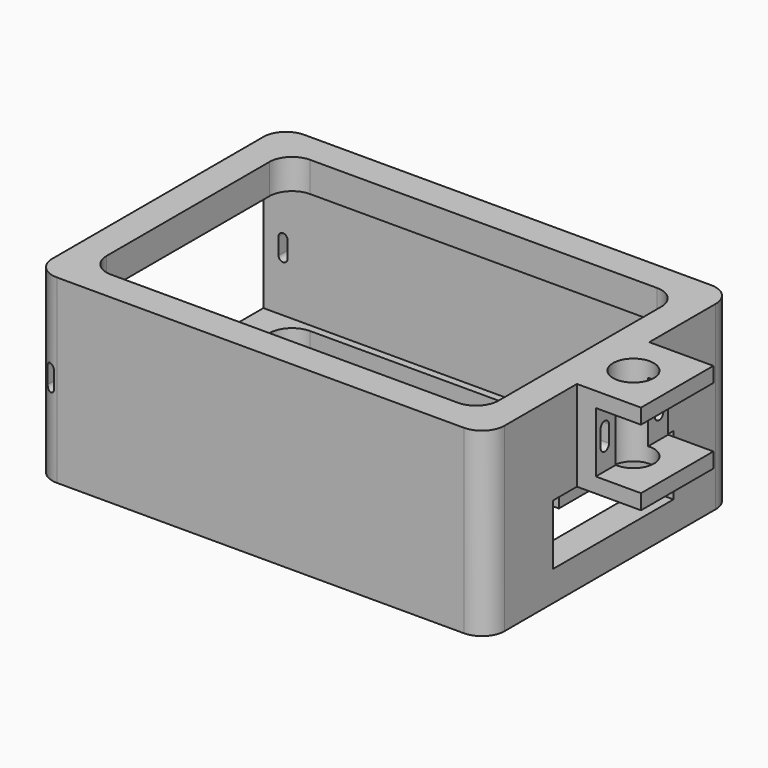
from build123d import *

# Parameters (mm, degrees)
SKETCH_R        = 1.7
PAD_DEPTH       = 24
SKETCH001_W     = 35
SKETCH001_H     = 16
POCKET_DEPTH    = 57
SKETCH002_W     = 20
SKETCH002_H     = 8
POCKET001_DEPTH = 5
SKETCH003_W     = 11
SKETCH003_H     = 20
POCKET002_DEPTH = 40.001
SKETCH004_W     = 20
SKETCH004_H     = 15
SKETCH004_R     = 1.7
PAD001_DEPTH    = 6
SKETCH005_W     = 12
SKETCH005_H     = 2.2
POCKET003_DEPTH = 40.001
SKETCH006_W     = 12
SKETCH006_H     = 12
PAD002_DEPTH    = 8.5
SKETCH007_R     = 2.7
POCKET004_DEPTH = 30.001
SKETCH008_W     = 12
SKETCH008_H     = 8
POCKET005_DEPTH = 6
POCKET006_DEPTH = 10
SKETCH010_W     = 7.6
SKETCH010_H     = 2.2
POCKET007_DEPTH = 2
POCKET008_DEPTH = 3.001
POCKET009_DEPTH = 5


with BuildPart() as part:
    # Sketch → Pad (new body)
    with BuildSketch(Plane.XY):
        with BuildLine():
            Line((3, 41), (20, 41))
            Line((20, 41), (20, 52))
            Line((20, 52), (40, 52))
            Line((40, 52), (40, 41))
            Line((40, 41), (57, 41))
            ThreePointArc((60, 38), (59.12132, 40.12132), (57, 41))
            Line((60, 38), (60, 3))
            ThreePointArc((57, 0), (59.12132, 0.87868), (60, 3))
            Line((57, 0), (3, 0))
            ThreePointArc((0, 3), (0.87868, 0.87868), (3, 0))
            Line((0, 3), (0, 38))
            ThreePointArc((3, 41), (0.87868, 40.12132), (0, 38))
        make_face()
        with Locations((30, 45)):
            Circle(SKETCH_R, mode=Mode.SUBTRACT)
        with BuildLine():
            Line((7, 4), (53, 4))
            ThreePointArc((53, 4), (55.12132, 4.87868), (56, 7))
            Line((56, 7), (56, 34))
            ThreePointArc((56, 34), (55.12132, 36.12132), (53, 37))
            Line((53, 37), (7, 37))
            ThreePointArc((7, 37), (4.87868, 36.12132), (4, 34))
            Line((4, 34), (4, 7))
            ThreePointArc((4, 7), (4.87868, 4.87868), (7, 4))
        make_face(mode=Mode.SUBTRACT)
    extrude(amount=PAD_DEPTH)

    # Sketch001 → Pocket (cut)
    with BuildSketch(Plane(origin=(0, 0, 0), x_dir=(0, -1, 0), z_dir=(-1, 0, 0))):
        with Locations((-20.5, 12)):
            Rectangle(SKETCH001_W, SKETCH001_H)
    extrude(amount=-POCKET_DEPTH, mode=Mode.SUBTRACT)

    # Sketch002 → Pocket001 (cut)
    with BuildSketch(Plane.YZ.offset(60)):
        with Locations((21, 8)):
            Rectangle(SKETCH002_W, SKETCH002_H)
    extrude(amount=-POCKET001_DEPTH, mode=Mode.SUBTRACT)

    # Sketch003 → Pocket002 (cut, through all)
    with BuildSketch(Plane(origin=(20, 0, 0), x_dir=(0, -1, 0), z_dir=(-1, 0, 0))):
        with Locations((-46.5, 14)):
            Rectangle(SKETCH003_W, SKETCH003_H)
    extrude(amount=-POCKET002_DEPTH, mode=Mode.SUBTRACT)

    # Sketch004 → Pad001 (new body)
    with BuildSketch(Plane(origin=(0, 0, 0), x_dir=(1, 0, 0), z_dir=(0, 0, -1))):
        with Locations((30, -44.5)):
            Rectangle(SKETCH004_W, SKETCH004_H)
        with Locations((30, -45)):
            Circle(SKETCH004_R, mode=Mode.SUBTRACT)
    extrude(amount=PAD001_DEPTH)

    # Sketch005 → Pocket003 (cut, through all)
    with BuildSketch(Plane.YZ.offset(40)):
        with Locations((43, -1.1)):
            Rectangle(SKETCH005_W, SKETCH005_H)
    extrude(amount=-POCKET003_DEPTH, mode=Mode.SUBTRACT)

    # Sketch006 → Pad002 (new body)
    with BuildSketch(Plane.YZ.offset(60)):
        with Locations((21, 18)):
            Rectangle(SKETCH006_W, SKETCH006_H)
    extrude(amount=PAD002_DEPTH)

    # Sketch007 → Pocket004 (cut, through all)
    with BuildSketch(Plane.XY.offset(24)):
        with Locations((62.7, 21)):
            Circle(SKETCH007_R)
    extrude(amount=-POCKET004_DEPTH, mode=Mode.SUBTRACT)

    # Sketch008 → Pocket005 (cut)
    with BuildSketch(Plane.YZ.offset(68.5)):
        with Locations((21, 18)):
            Rectangle(SKETCH008_W, SKETCH008_H)
    extrude(amount=-POCKET005_DEPTH, mode=Mode.SUBTRACT)

    # Sketch009 → Pocket006 (cut)
    with BuildSketch(Plane.YZ.offset(62.5)):
        with BuildLine():
            ThreePointArc((17.2, 19.200001), (16.5, 19.900001), (15.8, 19.200001))
            Line((15.8, 19.200001), (15.8, 17))
            ThreePointArc((15.8, 17), (16.5, 16.3), (17.2, 17.000001))
            Line((17.2, 19.200001), (17.2, 17.000001))
        make_face()
        with BuildLine():
            ThreePointArc((26.2, 19.2), (25.5, 19.900001), (24.8, 19.200001))
            Line((24.8, 19.200001), (24.8, 17.000001))
            ThreePointArc((24.8, 17.000001), (25.5, 16.300001), (26.2, 17))
            Line((26.2, 19.2), (26.2, 17))
        make_face()
    extrude(amount=-POCKET006_DEPTH, mode=Mode.SUBTRACT)

    # Sketch010 → Pocket007 (cut)
    with BuildSketch(Plane(origin=(57, 0, 0), x_dir=(0, -1, 0), z_dir=(-1, 0, 0))):
        with Locations((-21, 18.100001)):
            Rectangle(SKETCH010_W, SKETCH010_H)
    extrude(amount=-POCKET007_DEPTH, mode=Mode.SUBTRACT)

    # Sketch011 → Pocket008 (cut, through all)
    with BuildSketch(Plane(origin=(0, 3, 0), x_dir=(-1, 0, 0), z_dir=(0, 1, 0))):
        with BuildLine():
            ThreePointArc((-1.4, 12.999991), (-2, 13.6), (-2.6, 12.999991))
            Line((-2.6, 12.999991), (-2.6, 10.799995))
            ThreePointArc((-2.6, 10.799995), (-2, 10.2), (-1.4, 10.799994))
            Line((-1.4, 12.999991), (-1.4, 10.799994))
        make_face()
    extrude(amount=-POCKET008_DEPTH, mode=Mode.SUBTRACT)

    # Sketch012 → Pocket009 (cut)
    with BuildSketch(Plane.XZ.offset(-38)):
        with BuildLine():
            ThreePointArc((3.2, 13), (2.6, 13.600002), (2, 13))
            Line((2, 13), (2, 10.800003))
            ThreePointArc((2, 10.800003), (2.6, 10.200002), (3.2, 10.800003))
            Line((3.2, 13), (3.2, 10.800003))
        make_face()
    extrude(amount=-POCKET009_DEPTH, mode=Mode.SUBTRACT)


solid = part.part
